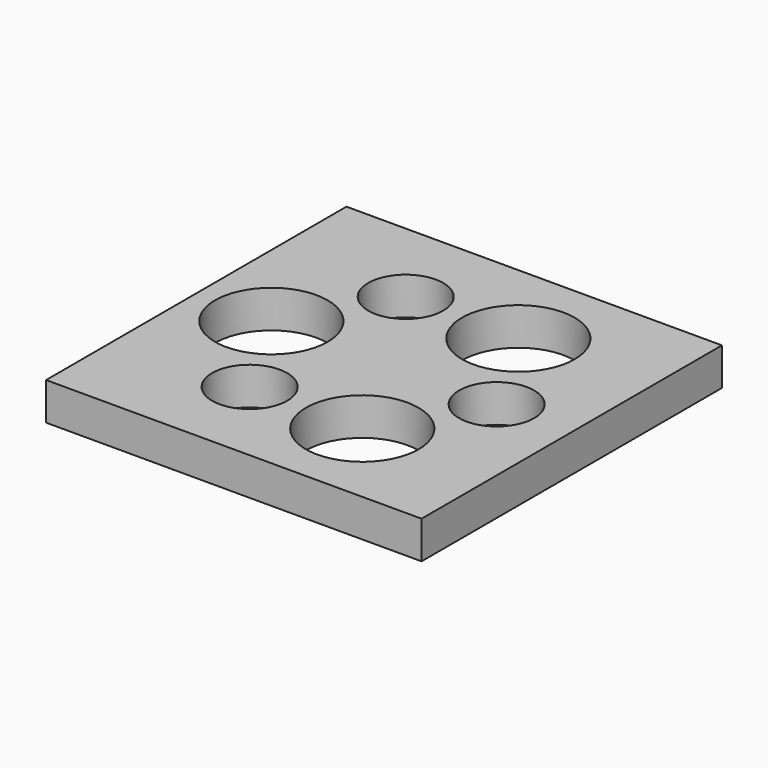
from build123d import *

# Parameters (mm, degrees)
F0_W     = 127
F0_H     = 127
F1_DEPTH = 12.7
F2_R     = 19.05
F2_R_2   = 12.7
F3_DEPTH = 25.4


with BuildPart() as f1:
    # F0 (on Top) → F1 (new body)
    with BuildSketch(Plane.XY):
        with Locations((63.5, 63.5)):
            Rectangle(F0_W, F0_H)
    extrude(amount=F1_DEPTH)

    # F2 (on face) → F3 (cut)
    with BuildSketch(Plane.XY.offset(12.7)):
        with Locations((82.55, 96.495568)):
            Circle(F2_R)
        with Locations((44.45, 96.495568)):
            Circle(F2_R_2)
        with Locations((25.4, 63.5)):
            Circle(F2_R)
        with Locations((44.45, 30.504432)):
            Circle(F2_R_2)
        with Locations((82.55, 30.504432)):
            Circle(F2_R)
        with Locations((101.6, 63.5)):
            Circle(F2_R_2)
    extrude(amount=-F3_DEPTH, mode=Mode.SUBTRACT)


solid = f1.part
